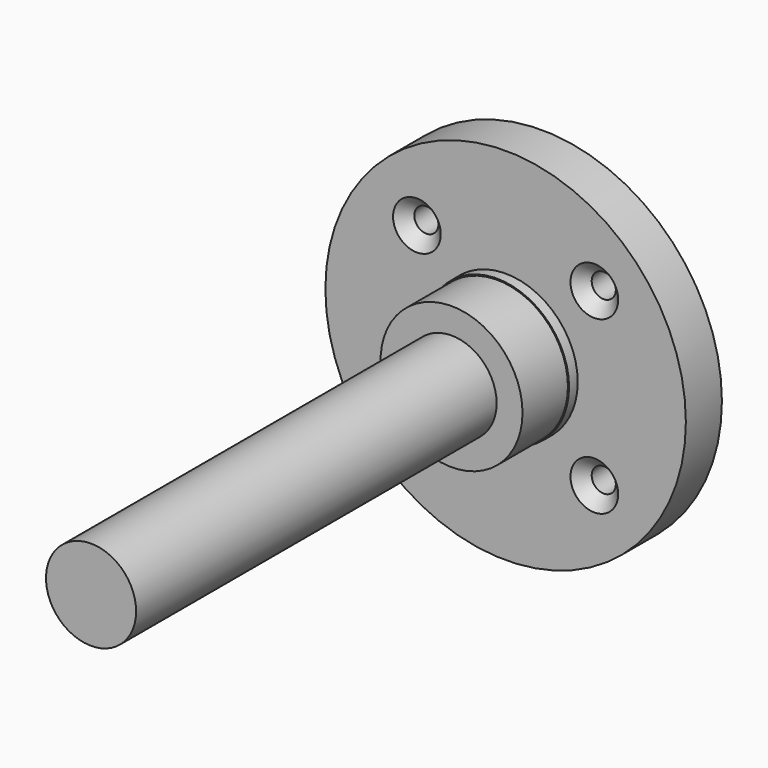
from build123d import *

# Parameters (mm, degrees)
F0_R           = 25.4
F1_DEPTH       = 6.35
F3_D           = 3.4
F3_CSINK_D     = 6.72
F3_CSINK_ANGLE = 90
F4_R           = 10.16
F5_DEPTH       = 9.525
F6_R           = 10.16
F6_R_2         = 10
F7_DEPTH       = 8
F8_R           = 6.35
F9_DEPTH       = 63.5


with BuildPart() as f1:
    # F0 (on Front) → F1 (new body)
    with BuildSketch(Plane.XZ):
        Circle(F0_R)
    extrude(amount=F1_DEPTH)

    # F3 (through all)
    with Locations(Plane.XZ.offset(6.35)):
        with Locations((-12.5, 12.059730643), (12.5, 12.059730643), (12.5, -12.059730643), (-12.5, -12.059730643)):
            CounterSinkHole(F3_D / 2, F3_CSINK_D / 2, counter_sink_angle=F3_CSINK_ANGLE)

    # F4 (on face) → F5 (join)
    with BuildSketch(Plane.XZ.offset(6.35)):
        Circle(F4_R)
    extrude(amount=F5_DEPTH)

    # F6 (on face) → F7 (cut)
    with BuildSketch(Plane.XZ.offset(15.875)):
        Circle(F6_R)
        Circle(F6_R_2, mode=Mode.SUBTRACT)
    extrude(amount=-F7_DEPTH, mode=Mode.SUBTRACT)

    # F8 (on face) → F9 (join)
    with BuildSketch(Plane.XZ.offset(15.875)):
        Circle(F8_R)
    extrude(amount=F9_DEPTH)


solid = f1.part
